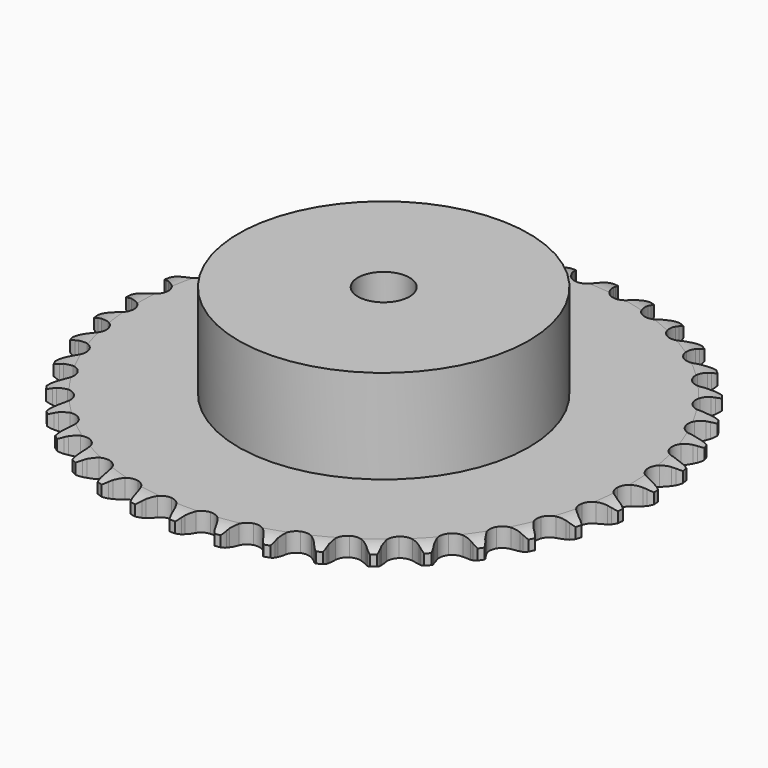
from build123d import *

# Parameters (mm, degrees)
PAD_DEPTH         = 5.9
SKETCH001_R       = 45
PAD001_DEPTH      = 35
SKETCH002_R       = 8
POCKET_DEPTH      = 0.001
POCKET_DEPTH_BACK = 35.001


with BuildPart() as part:
    # Sprocket → Pad (new body)
    with BuildSketch(Plane.XY):
        with BuildLine():
            ThreePointArc((-6.68105, 82.759654), (-5.637565, 81.583335), (-4.91942, 80.18446))
            Line((-4.91942, 80.18446), (-4.541526, 79.144757))
            ThreePointArc((-4.541526, 79.144757), (-3.943631, 77.809108), (-3.159576, 76.573513))
            ThreePointArc((-3.159576, 76.573513), (-1.768822, 75.402549), (0, 74.982286))
            ThreePointArc((0, 74.982286), (1.768822, 75.402549), (3.159576, 76.573513))
            ThreePointArc((3.159576, 76.573513), (3.943631, 77.809108), (4.541526, 79.144757))
            Line((4.541526, 79.144757), (4.91942, 80.18446))
            ThreePointArc((4.91942, 80.18446), (5.637565, 81.583335), (6.68105, 82.759654))
            ThreePointArc((6.68105, 82.759654), (7.522327, 81.431182), (8.006777, 79.935223))
            Line((8.006777, 79.935223), (8.212997, 78.848366))
            ThreePointArc((8.212997, 78.848366), (8.588897, 77.434104), (9.164595, 76.088738))
            ThreePointArc((9.164595, 76.088738), (10.349503, 74.709845), (12.028004, 74.011285))
            ThreePointArc((12.028004, 74.011285), (13.841336, 74.142367), (15.401916, 75.075075))
            Line((15.401916, 75.075075), (17.178426, 77.391342))
            ThreePointArc((17.178426, 77.391342), (17.435129, 77.881524), (17.718207, 78.356962))
            ThreePointArc((17.718207, 78.356962), (18.651447, 79.622524), (19.870114, 80.616222))
            ThreePointArc((19.870114, 80.616222), (20.487395, 79.170003), (20.725603, 77.615705))
            Line((20.725603, 77.615705), (20.754809, 76.509843))
            ThreePointArc((20.754809, 76.509843), (20.898977, 75.053596), (21.251408, 73.633304))
            ThreePointArc((21.251408, 73.633304), (22.199782, 72.082195), (23.74449, 71.12343))
            ThreePointArc((23.74449, 71.12343), (25.555366, 70.961936), (27.245354, 71.632231))
            Line((27.245354, 71.632231), (29.370415, 73.633531))
            ThreePointArc((29.370415, 73.633531), (29.702423, 74.076187), (30.058101, 74.500059))
            ThreePointArc((30.058101, 74.500059), (31.182267, 75.59953), (32.544553, 76.384873))
            ThreePointArc((32.544553, 76.384873), (32.921851, 74.858363), (32.907646, 73.285982))
            Line((32.907646, 73.285982), (32.759081, 72.189755))
            ThreePointArc((32.759081, 72.189755), (32.667784, 70.72924), (32.78782, 69.270807))
            ThreePointArc((32.78782, 69.270807), (33.475098, 67.587654), (34.846006, 66.393517))
            ThreePointArc((34.846006, 66.393517), (36.607526, 65.943629), (38.383152, 66.334151))
            Line((38.383152, 66.334151), (40.801724, 67.96865))
            ThreePointArc((40.801724, 67.96865), (41.200441, 68.352316), (41.619507, 68.713645))
            ThreePointArc((41.619507, 68.713645), (42.905482, 69.618549), (44.376105, 70.175195))
            ThreePointArc((44.376105, 70.175195), (44.503647, 68.607931), (44.237399, 67.05819))
            Line((44.237399, 67.05819), (43.914911, 65.99999))
            ThreePointArc((43.914911, 65.99999), (43.590513, 64.573034), (43.475046, 63.114232))
            ThreePointArc((43.475046, 63.114232), (43.883426, 61.342629), (45.045028, 59.944046))
            ThreePointArc((45.045028, 59.944046), (46.71157, 59.217416), (48.526846, 59.31805))
            Line((48.526846, 59.31805), (51.176291, 60.543417))
            ThreePointArc((51.176291, 60.543417), (51.631388, 60.858156), (52.102989, 61.147583))
            ThreePointArc((52.102989, 61.147583), (53.517468, 61.834484), (55.058339, 62.148017))
            ThreePointArc((55.058339, 62.148017), (54.932823, 60.580589), (54.421427, 59.093626))
            Line((54.421427, 59.093626), (53.933367, 58.100861))
            ThreePointArc((53.933367, 58.100861), (53.38427, 56.744421), (53.03629, 55.323031))
            ThreePointArc((53.03629, 55.323031), (53.155197, 53.508861), (54.077408, 51.942055))
            ThreePointArc((54.077408, 51.942055), (55.605809, 50.957503), (57.41372, 50.765643))
            Line((57.41372, 50.765643), (60.225418, 51.550141))
            ThreePointArc((60.225418, 51.550141), (60.72511, 51.787802), (61.237031, 51.99783))
            ThreePointArc((61.237031, 51.99783), (62.74338, 52.448938), (64.314591, 52.511238))
            ThreePointArc((64.314591, 52.511238), (63.939267, 50.984242), (63.195968, 49.598568))
            Line((63.195968, 49.598568), (62.554978, 48.696949))
            ThreePointArc((62.554978, 48.696949), (61.795403, 47.446156), (61.223922, 46.098994))
            ThreePointArc((61.223922, 46.098994), (61.050276, 44.289242), (61.709211, 42.594793))
            ThreePointArc((61.709211, 42.594793), (63.059887, 41.377818), (64.81361, 40.898433))
            Line((64.81361, 40.898433), (67.714739, 41.221744))
            ThreePointArc((67.714739, 41.221744), (68.246084, 41.376171), (68.785066, 41.501362))
            ThreePointArc((68.785066, 41.501362), (70.344271, 41.704992), (71.905129, 41.514445))
            ThreePointArc((71.905129, 41.514445), (71.289718, 40.06743), (70.333766, 38.818934))
            Line((70.333766, 38.818934), (69.556447, 38.031813))
            ThreePointArc((69.556447, 38.031813), (68.606067, 36.919061), (67.825887, 35.681016))
            ThreePointArc((67.825887, 35.681016), (67.364185, 33.922555), (67.742778, 32.144348))
            ThreePointArc((67.742778, 32.144348), (68.880747, 30.726469), (70.534861, 29.971975))
            Line((70.534861, 29.971975), (73.450284, 29.825725))
            ThreePointArc((73.450284, 29.825725), (73.999519, 29.892918), (74.551604, 29.930029))
            ThreePointArc((74.551604, 29.930029), (76.123282, 29.880909), (77.633361, 29.44245))
            ThreePointArc((77.633361, 29.44245), (76.793802, 28.112892), (75.649957, 27.033909))
            Line((75.649957, 27.033909), (74.756441, 26.381672))
            ThreePointArc((74.756441, 26.381672), (73.639871, 25.435782), (72.671197, 24.338919))
            ThreePointArc((72.671197, 24.338919), (71.933397, 22.677292), (72.021843, 20.861381))
            ThreePointArc((72.021843, 20.861381), (72.917631, 19.27932), (74.429296, 18.269259))
            Line((74.429296, 18.269259), (77.283505, 17.657236))
            ThreePointArc((77.283505, 17.657236), (77.836406, 17.635455), (78.387295, 17.583525))
            ThreePointArc((78.387295, 17.583525), (79.93074, 17.282925), (81.350931, 16.607911))
            ThreePointArc((81.350931, 16.607911), (80.308968, 15.430245), (79.006854, 14.548721))
            Line((79.006854, 14.548721), (78.020283, 14.04826))
            ThreePointArc((78.020283, 14.04826), (76.76644, 13.293729), (75.634361, 12.366456))
            ThreePointArc((75.634361, 12.366456), (74.639572, 10.844698), (74.43558, 9.038116))
            ThreePointArc((74.43558, 9.038116), (75.065988, 7.332848), (76.396051, 6.093378))
            Line((76.396051, 6.093378), (79.115123, 5.031433))
            ThreePointArc((79.115123, 5.031433), (79.657371, 4.921243), (80.192795, 4.781617))
            ThreePointArc((80.192795, 4.781617), (81.668034, 4.237324), (82.961554, 3.343236))
            ThreePointArc((82.961554, 3.343236), (81.744173, 2.347963), (80.317515, 1.686728))
            Line((80.317515, 1.686728), (79.26344, 1.351005))
            ThreePointArc((79.26344, 1.351005), (77.904799, 0.807376), (76.638635, 0.073709))
            ThreePointArc((76.638635, 0.073709), (75.412621, -1.268767), (74.921475, -3.019232))
            ThreePointArc((74.921475, -3.019232), (75.270174, -4.803542), (76.384189, -6.240318))
            Line((76.384189, -6.240318), (78.897702, -7.724681))
            ThreePointArc((78.897702, -7.724681), (79.415252, -7.920427), (79.921345, -8.144133))
            ThreePointArc((79.921345, -8.144133), (81.290169, -8.918023), (82.423517, -10.008027))
            ThreePointArc((82.423517, -10.008027), (81.062247, -10.79513), (79.547995, -11.21895))
            Line((79.547995, -11.21895), (78.453715, -11.38124))
            ThreePointArc((78.453715, -11.38124), (77.025464, -11.699888), (75.658009, -12.220947))
            ThreePointArc((75.658009, -12.220947), (74.232523, -13.349372), (73.466942, -14.998384))
            ThreePointArc((73.466942, -14.998384), (73.524903, -16.815523), (74.394016, -18.412393))
            Line((74.394016, -18.412393), (76.636872, -20.28073))
            ThreePointArc((76.636872, -20.28073), (77.11632, -20.556961), (77.579974, -20.858954))
            ThreePointArc((77.579974, -20.858954), (78.806932, -21.842397), (79.750753, -23.100087))
            ThreePointArc((79.750753, -23.100087), (78.280852, -23.658635), (76.718223, -23.834064))
            Line((76.718223, -23.834064), (75.612081, -23.818717))
            ThreePointArc((75.612081, -23.818717), (74.151211, -23.904131), (72.71788, -24.199087))
            ThreePointArc((72.71788, -24.199087), (71.129841, -25.084235), (70.109655, -26.589085))
            ThreePointArc((70.109655, -26.589085), (69.875375, -28.39199), (70.477078, -30.107597))
            Line((70.477078, -30.107597), (72.391186, -32.311518))
            ThreePointArc((72.391186, -32.311518), (72.820115, -32.661082), (73.229322, -33.033539))
            ThreePointArc((73.229322, -33.033539), (74.282636, -34.201064), (75.012487, -35.593868))
            ThreePointArc((75.012487, -35.593868), (73.472024, -35.909393), (71.901489, -35.831887))
            Line((71.901489, -35.831887), (70.812134, -35.639302))
            ThreePointArc((70.812134, -35.639302), (69.35648, -35.48927), (67.894396, -35.550483))
            ThreePointArc((67.894396, -35.550483), (66.184934, -36.16943), (64.936564, -37.491143))
            ThreePointArc((64.936564, -37.491143), (64.416112, -39.23312), (64.73482, -41.02303))
            Line((64.73482, -41.02303), (66.270607, -43.505456))
            ThreePointArc((66.270607, -43.505456), (66.637908, -43.919297), (66.982069, -44.352573))
            ThreePointArc((66.982069, -44.352573), (67.834459, -45.673942), (68.331437, -47.165786))
            ThreePointArc((68.331437, -47.165786), (66.760308, -47.230117), (65.222545, -46.901684))
            Line((65.222545, -46.901684), (64.178189, -46.536847))
            ThreePointArc((64.178189, -46.536847), (62.765453, -46.155255), (61.312483, -45.981141))
            ThreePointArc((61.312483, -45.981141), (59.525872, -46.317855), (58.08165, -47.4222))
            ThreePointArc((58.08165, -47.4222), (57.288505, -49.058132), (57.315964, -50.875988))
            Line((57.315964, -50.875988), (58.433655, -53.572624))
            ThreePointArc((58.433655, -53.572624), (58.729814, -54.040026), (59.000016, -54.522898))
            ThreePointArc((59.000016, -54.522898), (59.629405, -55.963889), (59.880639, -57.516135))
            ThreePointArc((59.880639, -57.516135), (58.319536, -57.327606), (56.854371, -56.756751))
            Line((56.854371, -56.756751), (55.882063, -56.229113))
            ThreePointArc((55.882063, -56.229113), (54.548833, -55.625843), (53.142608, -55.220911))
            ThreePointArc((53.142608, -55.220911), (51.325121, -55.266673), (49.722452, -56.125047))
            ThreePointArc((49.722452, -56.125047), (48.677157, -57.612565), (48.412655, -59.411284))
            Line((48.412655, -59.411284), (49.083301, -62.25229))
            ThreePointArc((49.083301, -62.25229), (49.300648, -62.761147), (49.489893, -63.281109))
            ThreePointArc((49.489893, -63.281109), (49.87998, -64.804401), (49.878964, -66.376846))
            ThreePointArc((49.878964, -66.376846), (48.368319, -65.94034), (47.013699, -65.141849))
            Line((47.013699, -65.141849), (46.138621, -64.465074))
            ThreePointArc((46.138621, -64.465074), (44.919427, -63.655751), (43.596368, -63.030489))
            ThreePointArc((43.596368, -63.030489), (41.795077, -62.784112), (40.075469, -63.374284))
            ThreePointArc((40.075469, -63.374284), (38.805095, -64.674862), (38.255484, -66.40786))
            Line((38.255484, -66.40786), (38.461715, -69.319655))
            ThreePointArc((38.461715, -69.319655), (38.594622, -69.856786), (38.698009, -70.400372))
            ThreePointArc((38.698009, -70.400372), (38.838691, -71.966512), (38.585449, -73.518431))
            ThreePointArc((38.585449, -73.518431), (37.164387, -72.845254), (35.955396, -71.839806))
            Line((35.955396, -71.839806), (35.200213, -71.031423))
            ThreePointArc((35.200213, -71.031423), (34.126632, -70.037009), (32.921005, -69.20761))
            ThreePointArc((32.921005, -69.20761), (31.182562, -68.675476), (29.390552, -68.982161))
            ThreePointArc((29.390552, -68.982161), (27.928002, -70.062115), (27.107515, -71.684506))
            Line((27.107515, -71.684506), (26.843992, -74.591676))
            ThreePointArc((26.843992, -74.591676), (26.889015, -75.143172), (26.903866, -75.696303))
            ThreePointArc((26.903866, -75.696303), (26.7915, -77.264729), (26.292592, -78.755928))
            ThreePointArc((26.292592, -78.755928), (24.997918, -77.863514), (23.965868, -76.677151))
            Line((23.965868, -76.677151), (23.350138, -75.758096))
            ThreePointArc((23.350138, -75.758096), (22.449975, -74.604344), (21.393006, -73.59229))
            ThreePointArc((21.393006, -73.59229), (19.762435, -72.788181), (17.944435, -72.803437))
            ThreePointArc((17.944435, -72.803437), (16.327588, -73.634795), (15.257477, -75.104562))
            Line((15.257477, -75.104562), (14.531023, -77.931813))
            ThreePointArc((14.531023, -77.931813), (14.486997, -78.483389), (14.412927, -79.031739))
            ThreePointArc((14.412927, -79.031739), (14.050423, -80.56183), (13.318771, -81.953688))
            ThreePointArc((13.318771, -81.953688), (12.184015, -80.86515), (11.355636, -79.528598))
            Line((11.355636, -79.528598), (10.895306, -78.522674))
            ThreePointArc((10.895306, -78.522674), (10.191875, -77.239467), (9.310938, -76.070969))
            ThreePointArc((9.310938, -76.070969), (7.830471, -75.015711), (6.033567, -74.739141))
            ThreePointArc((6.033567, -74.739141), (4.304298, -75.300373), (3.012277, -76.579449))
            Line((3.012277, -76.579449), (1.841708, -79.253556))
            ThreePointArc((1.841708, -79.253556), (1.709773, -79.790928), (1.5487, -80.320295))
            ThreePointArc((1.5487, -80.320295), (0.945447, -81.772421), (0, -83.028891))
            ThreePointArc((0, -83.028891), (-0.945447, -81.772421), (-1.5487, -80.320295))
            Line((-1.5487, -80.320295), (-1.841708, -79.253556))
            ThreePointArc((-1.841708, -79.253556), (-2.330189, -77.874128), (-3.012277, -76.579449))
            ThreePointArc((-3.012277, -76.579449), (-4.304298, -75.300373), (-6.033567, -74.739141))
            ThreePointArc((-6.033567, -74.739141), (-7.830471, -75.015711), (-9.310938, -76.070969))
            Line((-9.310938, -76.070969), (-10.895306, -78.522674))
            ThreePointArc((-10.895306, -78.522674), (-11.111733, -79.031923), (-11.355636, -79.528598))
            ThreePointArc((-11.355636, -79.528598), (-12.184015, -80.86515), (-13.318771, -81.953688))
            ThreePointArc((-13.318771, -81.953688), (-14.050423, -80.56183), (-14.412927, -79.031739))
            Line((-14.412927, -79.031739), (-14.531023, -77.931813))
            ThreePointArc((-14.531023, -77.931813), (-14.791902, -76.49189), (-15.257477, -75.104562))
            ThreePointArc((-15.257477, -75.104562), (-16.327588, -73.634795), (-17.944435, -72.803437))
            ThreePointArc((-17.944435, -72.803437), (-19.762435, -72.788181), (-21.393006, -73.59229))
            Line((-21.393006, -73.59229), (-23.350138, -75.758096))
            ThreePointArc((-23.350138, -75.758096), (-23.645451, -76.226033), (-23.965868, -76.677151))
            ThreePointArc((-23.965868, -76.677151), (-24.997918, -77.863514), (-26.292592, -78.755928))
            ThreePointArc((-26.292592, -78.755928), (-26.7915, -77.264729), (-26.903866, -75.696303))
            Line((-26.903866, -75.696303), (-26.843992, -74.591676))
            ThreePointArc((-26.843992, -74.591676), (-26.870513, -73.128552), (-27.107515, -71.684506))
            ThreePointArc((-27.107515, -71.684506), (-27.928002, -70.062115), (-29.390552, -68.982161))
            ThreePointArc((-29.390552, -68.982161), (-31.182562, -68.675476), (-32.921005, -69.20761))
            Line((-32.921005, -69.20761), (-35.200213, -71.031423))
            ThreePointArc((-35.200213, -71.031423), (-35.566764, -71.445929), (-35.955396, -71.839806))
            ThreePointArc((-35.955396, -71.839806), (-37.164387, -72.845254), (-38.585449, -73.518431))
            ThreePointArc((-38.585449, -73.518431), (-38.838691, -71.966512), (-38.698009, -70.400372))
            Line((-38.698009, -70.400372), (-38.461715, -69.319655))
            ThreePointArc((-38.461715, -69.319655), (-38.253192, -67.871223), (-38.255484, -66.40786))
            ThreePointArc((-38.255484, -66.40786), (-38.805095, -64.674862), (-40.075469, -63.374284))
            ThreePointArc((-40.075469, -63.374284), (-41.795077, -62.784112), (-43.596368, -63.030489))
            Line((-43.596368, -63.030489), (-46.138621, -64.465074))
            ThreePointArc((-46.138621, -64.465074), (-46.566917, -64.815413), (-47.013699, -65.141849))
            ThreePointArc((-47.013699, -65.141849), (-48.368319, -65.94034), (-49.878964, -66.376846))
            ThreePointArc((-49.878964, -66.376846), (-49.87998, -64.804401), (-49.489893, -63.281109))
            Line((-49.489893, -63.281109), (-49.083301, -62.25229))
            ThreePointArc((-49.083301, -62.25229), (-48.645133, -60.856065), (-48.412655, -59.411284))
            ThreePointArc((-48.412655, -59.411284), (-48.677157, -57.612565), (-49.722452, -56.125047))
            ThreePointArc((-49.722452, -56.125047), (-51.325121, -55.266673), (-53.142608, -55.220911))
            Line((-53.142608, -55.220911), (-55.882063, -56.229113))
            ThreePointArc((-55.882063, -56.229113), (-56.361011, -56.506211), (-56.854371, -56.756751))
            ThreePointArc((-56.854371, -56.756751), (-58.319536, -57.327606), (-59.880639, -57.516135))
            ThreePointArc((-59.880639, -57.516135), (-59.629405, -55.963889), (-59.000016, -54.522898))
            Line((-59.000016, -54.522898), (-58.433655, -53.572624))
            ThreePointArc((-58.433655, -53.572624), (-57.77719, -52.264767), (-57.315964, -50.875988))
            ThreePointArc((-57.315964, -50.875988), (-57.288505, -49.058132), (-58.08165, -47.4222))
            ThreePointArc((-58.08165, -47.4222), (-59.525872, -46.317855), (-61.312483, -45.981141))
            Line((-61.312483, -45.981141), (-64.178189, -46.536847))
            ThreePointArc((-64.178189, -46.536847), (-64.695384, -46.733529), (-65.222545, -46.901684))
            ThreePointArc((-65.222545, -46.901684), (-66.760308, -47.230117), (-68.331437, -47.165786))
            ThreePointArc((-68.331437, -47.165786), (-67.834459, -45.673942), (-66.982069, -44.352573))
            Line((-66.982069, -44.352573), (-66.270607, -43.505456))
            ThreePointArc((-66.270607, -43.505456), (-65.412849, -42.319839), (-64.73482, -41.02303))
            ThreePointArc((-64.73482, -41.02303), (-64.416112, -39.23312), (-64.936564, -37.491143))
            ThreePointArc((-64.936564, -37.491143), (-66.184934, -36.16943), (-67.894396, -35.550483))
            Line((-67.894396, -35.550483), (-70.812134, -35.639302))
            ThreePointArc((-70.812134, -35.639302), (-71.354181, -35.750472), (-71.901489, -35.831887))
            ThreePointArc((-71.901489, -35.831887), (-73.472024, -35.909393), (-75.012487, -35.593868))
            ThreePointArc((-75.012487, -35.593868), (-74.282636, -34.201064), (-73.229322, -33.033539))
            Line((-73.229322, -33.033539), (-72.391186, -32.311518))
            ThreePointArc((-72.391186, -32.311518), (-71.354349, -31.278849), (-70.477078, -30.107597))
            ThreePointArc((-70.477078, -30.107597), (-69.875375, -28.39199), (-70.109655, -26.589085))
            ThreePointArc((-70.109655, -26.589085), (-71.129841, -25.084235), (-72.71788, -24.199087))
            Line((-72.71788, -24.199087), (-75.612081, -23.818717))
            ThreePointArc((-75.612081, -23.818717), (-76.164942, -23.841497), (-76.718223, -23.834064))
            ThreePointArc((-76.718223, -23.834064), (-78.280852, -23.658635), (-79.750753, -23.100087))
            ThreePointArc((-79.750753, -23.100087), (-78.806932, -21.842397), (-77.579974, -20.858954))
            Line((-77.579974, -20.858954), (-76.636872, -20.28073))
            ThreePointArc((-76.636872, -20.28073), (-75.447809, -19.427754), (-74.394016, -18.412393))
            ThreePointArc((-74.394016, -18.412393), (-73.524903, -16.815523), (-73.466942, -14.998384))
            ThreePointArc((-73.466942, -14.998384), (-74.232523, -13.349372), (-75.658009, -12.220947))
            Line((-75.658009, -12.220947), (-78.453715, -11.38124))
            ThreePointArc((-78.453715, -11.38124), (-79.003071, -11.31504), (-79.547995, -11.21895))
            ThreePointArc((-79.547995, -11.21895), (-81.062247, -10.79513), (-82.423517, -10.008027))
            ThreePointArc((-82.423517, -10.008027), (-81.290169, -8.918023), (-79.921345, -8.144133))
            Line((-79.921345, -8.144133), (-78.897702, -7.724681))
            ThreePointArc((-78.897702, -7.724681), (-77.587211, -7.07349), (-76.384189, -6.240318))
            ThreePointArc((-76.384189, -6.240318), (-75.270174, -4.803542), (-74.921475, -3.019232))
            ThreePointArc((-74.921475, -3.019232), (-75.412621, -1.268767), (-76.638635, 0.073709))
            Line((-76.638635, 0.073709), (-79.26344, 1.351005))
            ThreePointArc((-79.26344, 1.351005), (-79.795063, 1.50447), (-80.317515, 1.686728))
            ThreePointArc((-80.317515, 1.686728), (-81.744173, 2.347963), (-82.961554, 3.343236))
            ThreePointArc((-82.961554, 3.343236), (-81.668034, 4.237324), (-80.192795, 4.781617))
            Line((-80.192795, 4.781617), (-79.115123, 5.031433))
            ThreePointArc((-79.115123, 5.031433), (-77.717144, 5.463974), (-76.396051, 6.093378))
            ThreePointArc((-76.396051, 6.093378), (-75.065988, 7.332848), (-74.43558, 9.038116))
            ThreePointArc((-74.43558, 9.038116), (-74.639572, 10.844698), (-75.634361, 12.366456))
            Line((-75.634361, 12.366456), (-78.020283, 14.04826))
            ThreePointArc((-78.020283, 14.04826), (-78.520403, 14.285016), (-79.006854, 14.548721))
            ThreePointArc((-79.006854, 14.548721), (-80.308968, 15.430245), (-81.350931, 16.607911))
            ThreePointArc((-81.350931, 16.607911), (-79.93074, 17.282925), (-78.387295, 17.583525))
            Line((-78.387295, 17.583525), (-77.283505, 17.657236))
            ThreePointArc((-77.283505, 17.657236), (-75.834245, 17.859924), (-74.429296, 18.269259))
            ThreePointArc((-74.429296, 18.269259), (-72.917631, 19.27932), (-72.021843, 20.861381))
            ThreePointArc((-72.021843, 20.861381), (-71.933397, 22.677292), (-72.671197, 24.338919))
            Line((-72.671197, 24.338919), (-74.756441, 26.381672))
            ThreePointArc((-74.756441, 26.381672), (-75.212107, 26.695587), (-75.649957, 27.033909))
            ThreePointArc((-75.649957, 27.033909), (-76.793802, 28.112892), (-77.633361, 29.44245))
            ThreePointArc((-77.633361, 29.44245), (-76.123282, 29.880909), (-74.551604, 29.930029))
            Line((-74.551604, 29.930029), (-73.450284, 29.825725))
            ThreePointArc((-73.450284, 29.825725), (-71.987278, 29.793311), (-70.534861, 29.971975))
            ThreePointArc((-70.534861, 29.971975), (-68.880747, 30.726469), (-67.742778, 32.144348))
            ThreePointArc((-67.742778, 32.144348), (-67.364185, 33.922555), (-67.825887, 35.681016))
            Line((-67.825887, 35.681016), (-69.556447, 38.031813))
            ThreePointArc((-69.556447, 38.031813), (-69.955857, 38.414757), (-70.333766, 38.818934))
            ThreePointArc((-70.333766, 38.818934), (-71.289718, 40.06743), (-71.905129, 41.514445))
            ThreePointArc((-71.905129, 41.514445), (-70.344271, 41.704992), (-68.785066, 41.501362))
            Line((-68.785066, 41.501362), (-67.714739, 41.221744))
            ThreePointArc((-67.714739, 41.221744), (-66.275878, 40.955067), (-64.81361, 40.898433))
            ThreePointArc((-64.81361, 40.898433), (-63.059887, 41.377818), (-61.709211, 42.594793))
            ThreePointArc((-61.709211, 42.594793), (-61.050276, 44.289242), (-61.223922, 46.098994))
            Line((-61.223922, 46.098994), (-62.554978, 48.696949))
            ThreePointArc((-62.554978, 48.696949), (-62.887786, 49.139004), (-63.195968, 49.598568))
            ThreePointArc((-63.195968, 49.598568), (-63.939267, 50.984242), (-64.314591, 52.511238))
            ThreePointArc((-64.314591, 52.511238), (-62.74338, 52.448938), (-61.237031, 51.99783))
            Line((-61.237031, 51.99783), (-60.225418, 51.550141))
            ThreePointArc((-60.225418, 51.550141), (-58.847969, 51.056108), (-57.41372, 50.765643))
            ThreePointArc((-57.41372, 50.765643), (-55.605809, 50.957503), (-54.077408, 51.942055))
            ThreePointArc((-54.077408, 51.942055), (-53.155197, 53.508861), (-53.03629, 55.323031))
            Line((-53.03629, 55.323031), (-53.933367, 58.100861))
            ThreePointArc((-53.933367, 58.100861), (-54.190955, 58.590578), (-54.421427, 59.093626))
            ThreePointArc((-54.421427, 59.093626), (-54.932823, 60.580589), (-55.058339, 62.148017))
            ThreePointArc((-55.058339, 62.148017), (-53.517468, 61.834484), (-52.102989, 61.147583))
            Line((-52.102989, 61.147583), (-51.176291, 60.543417))
            ThreePointArc((-51.176291, 60.543417), (-49.895927, 59.834823), (-48.526846, 59.31805))
            ThreePointArc((-48.526846, 59.31805), (-46.71157, 59.217416), (-45.045028, 59.944046))
            ThreePointArc((-45.045028, 59.944046), (-43.883426, 61.342629), (-43.475046, 63.114232))
            Line((-43.475046, 63.114232), (-43.914911, 65.99999))
            ThreePointArc((-43.914911, 65.99999), (-44.090607, 66.524686), (-44.237399, 67.05819))
            ThreePointArc((-44.237399, 67.05819), (-44.503647, 68.607931), (-44.376105, 70.175195))
            ThreePointArc((-44.376105, 70.175195), (-42.905482, 69.618549), (-41.619507, 68.713645))
            Line((-41.619507, 68.713645), (-40.801724, 67.96865))
            ThreePointArc((-40.801724, 67.96865), (-39.651607, 67.063847), (-38.383152, 66.334151))
            ThreePointArc((-38.383152, 66.334151), (-36.607526, 65.943629), (-34.846006, 66.393517))
            ThreePointArc((-34.846006, 66.393517), (-33.475098, 67.587654), (-32.78782, 69.270807))
            Line((-32.78782, 69.270807), (-32.759081, 72.189755))
            ThreePointArc((-32.759081, 72.189755), (-32.848335, 72.735839), (-32.907646, 73.285982))
            ThreePointArc((-32.907646, 73.285982), (-32.921851, 74.858363), (-32.544553, 76.384873))
            ThreePointArc((-32.544553, 76.384873), (-31.182267, 75.59953), (-30.058101, 74.500059))
            Line((-30.058101, 74.500059), (-29.370415, 73.633531))
            ThreePointArc((-29.370415, 73.633531), (-28.380332, 72.555953), (-27.245354, 71.632231))
            ThreePointArc((-27.245354, 71.632231), (-25.555366, 70.961936), (-23.74449, 71.12343))
            ThreePointArc((-23.74449, 71.12343), (-22.199782, 72.082195), (-21.251408, 73.633304))
            Line((-21.251408, 73.633304), (-20.754809, 76.509843))
            ThreePointArc((-20.754809, 76.509843), (-20.755309, 77.063173), (-20.725603, 77.615705))
            ThreePointArc((-20.725603, 77.615705), (-20.487395, 79.170003), (-19.870114, 80.616222))
            ThreePointArc((-19.870114, 80.616222), (-18.651447, 79.622524), (-17.718207, 78.356962))
            Line((-17.718207, 78.356962), (-17.178426, 77.391342))
            ThreePointArc((-17.178426, 77.391342), (-16.374021, 76.168898), (-15.401916, 75.075075))
            ThreePointArc((-15.401916, 75.075075), (-13.841336, 74.142367), (-12.028004, 74.011285))
            ThreePointArc((-12.028004, 74.011285), (-10.349503, 74.709845), (-9.164595, 76.088738))
            Line((-9.164595, 76.088738), (-8.212997, 78.848366))
            ThreePointArc((-8.212997, 78.848366), (-8.124731, 79.394611), (-8.006777, 79.935223))
            ThreePointArc((-8.006777, 79.935223), (-7.522327, 81.431182), (-6.68105, 82.759654))
        make_face()
    extrude(amount=PAD_DEPTH)

    # Sketch → Groove (revolve, cut)
    with BuildSketch(Plane.XZ):
        with BuildLine():
            Line((76.233431, 0), (81.9, 0))
            Line((87.566569, 0), (81.9, 0))
            Line((87.566569, 5.9), (87.566569, 0))
            Line((81.9, 5.9), (87.566569, 5.9))
            Line((76.233431, 5.9), (81.9, 5.9))
            ThreePointArc((81.9, 4.6), (79.14032, 5.570833), (76.233431, 5.9))
            Line((81.9, 1.3), (81.9, 4.6))
            ThreePointArc((76.233431, 0), (79.14032, 0.329167), (81.9, 1.3))
        make_face()
    revolve(axis=Axis((0, 0, 0), (0, 0, 1)), mode=Mode.SUBTRACT)

    # Sketch001 → Pad001 (join)
    with BuildSketch(Plane.XY):
        Circle(SKETCH001_R)
    extrude(amount=PAD001_DEPTH)

    # Sketch002 → Pocket (cut, two sides)
    with BuildSketch(Plane.XY) as pocket_sk:
        Circle(SKETCH002_R)
    extrude(amount=-POCKET_DEPTH, mode=Mode.SUBTRACT)
    extrude(pocket_sk.sketch, amount=POCKET_DEPTH_BACK, mode=Mode.SUBTRACT)


solid = part.part
